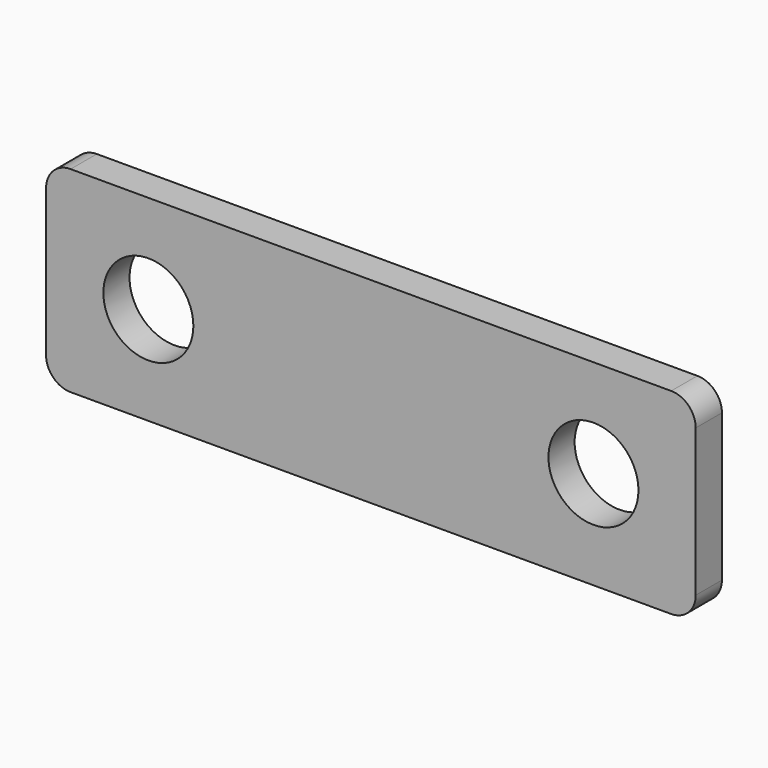
from build123d import *

# Parameters (mm, degrees)
F0_W     = 79.4
F0_H     = 24
F1_DEPTH = 4
F2_R     = 5.5
F3_DEPTH = 25
F4_R     = 3


with BuildPart() as f1:
    # F0 (on Front) → F1 (new body)
    with BuildSketch(Plane.XZ):
        Rectangle(F0_W, F0_H)
    extrude(amount=F1_DEPTH)

    # F2 (on face) → F3 (cut)
    with BuildSketch(Plane.XZ.offset(4)):
        with Locations((-27.2, 0)):
            Circle(F2_R)
        with Locations((27.2, 0)):
            Circle(F2_R)
    extrude(amount=-F3_DEPTH, mode=Mode.SUBTRACT)

    # F4
    f4_edges = [f1.edges().sort_by_distance(p)[0] for p in [
        (39.7, -2, 12),
        (39.7, -2, -12),
        (-39.7, -2, -12),
        (-39.7, -2, 12),
    ]]
    fillet(f4_edges, radius=F4_R)


solid = f1.part
